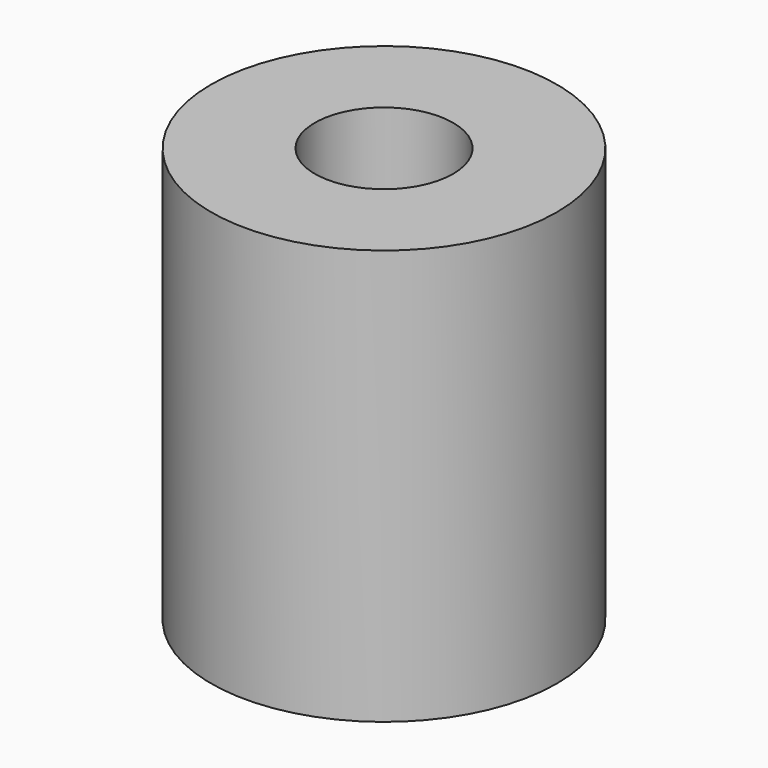
from build123d import *

# Parameters (mm, degrees)
CYLINDER_R     = 10
CYLINDER_DEPTH = 24
SKETCH_R       = 4
POCKET_DEPTH   = 24.001


with BuildPart() as part:
    # Cylinder → Cylinder (new body)
    with BuildSketch(Plane.XY):
        Circle(CYLINDER_R)
    extrude(amount=CYLINDER_DEPTH)

    # Sketch → Pocket (cut, through all)
    with BuildSketch(Plane.XY.offset(24)):
        Circle(SKETCH_R)
    extrude(amount=-POCKET_DEPTH, mode=Mode.SUBTRACT)


solid = part.part
